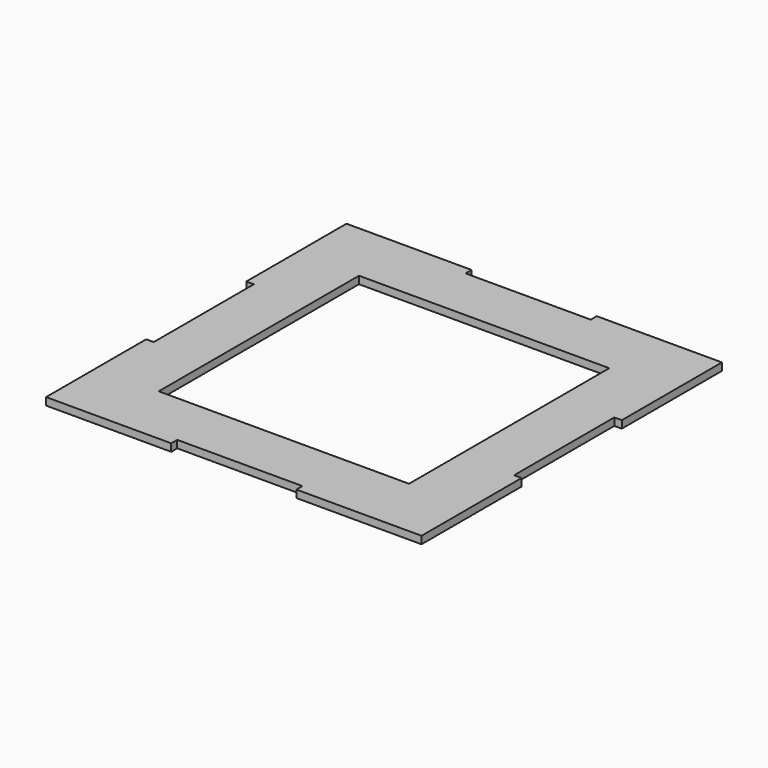
from build123d import *

# Parameters (mm, degrees)
F0_W     = 100
F0_H     = 100
F1_DEPTH = 3


with BuildPart() as f1:
    # F0 (on Top) → F1 (new body)
    with BuildSketch(Plane.XY):
        Polygon((75, 25), (75, 75), (25, 75), (25, 72), (-25, 72), (-25, 75), (-75, 75), (-75, 25), (-72, 25), (-72, -25), (-75, -25), (-75, -75), (-25, -75), (-25, -72), (25, -72), (25, -75), (75, -75), (75, -25), (72, -25), (72, 25), align=None)
        Rectangle(F0_W, F0_H, mode=Mode.SUBTRACT)
    extrude(amount=F1_DEPTH)


solid = f1.part
